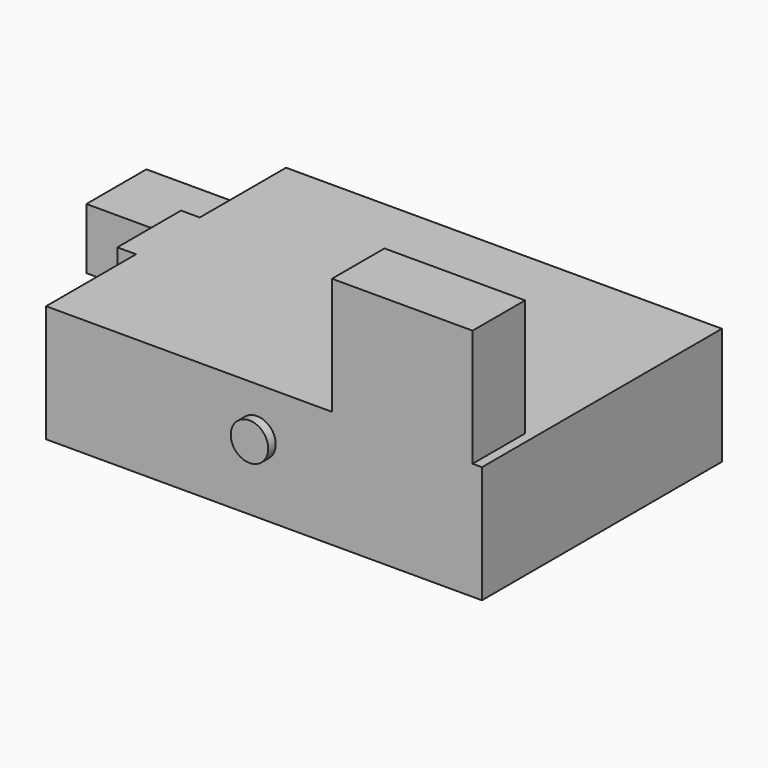
from build123d import *

# Parameters (mm, degrees)
F0_W     = 4
F0_H     = 17
F1_DEPTH = 25
F2_R     = 4
F3_DEPTH = 2
F4_W     = 30
F4_H     = 14
F5_DEPTH = 25
F6_W     = 16
F6_H     = 13
F7_DEPTH = 25


with BuildPart() as f1:
    # F0 (on Top) → F1 (new body)
    with BuildSketch(Plane.XY):
        Polygon((-46.436612, -32), (46.563388, -32), (46.563388, 32), (-46.436612, 32), (-46.436612, 9), (-46.436612, -8), align=None)
        with Locations((-48.436612, 0.5)):
            Rectangle(F0_W, F0_H)
    extrude(amount=F1_DEPTH)

    # F2 (on face) → F3 (join)
    with BuildSketch(Plane.XZ.offset(32)):
        with Locations((-1.436612, 15)):
            Circle(F2_R)
    extrude(amount=F3_DEPTH)

    # F4 (on face) → F5 (join)
    with BuildSketch(Plane.XY.offset(25)):
        with Locations((29.563388, -25)):
            Rectangle(F4_W, F4_H)
    extrude(amount=F5_DEPTH)

    # F6 (on face) → F7 (join)
    with BuildSketch(Plane(origin=(-46.436612, 0, 0), x_dir=(0, -1, 0), z_dir=(-1, 0, 0))):
        with Locations((-18, 12.5)):
            Rectangle(F6_W, F6_H)
    extrude(amount=F7_DEPTH)


solid = f1.part
